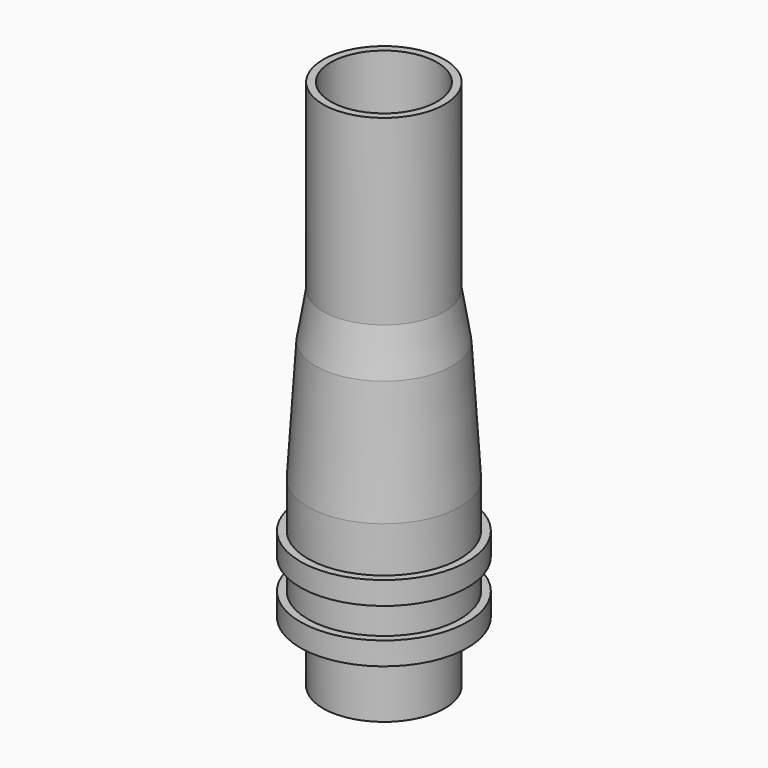
from build123d import *

# Parameters (mm, degrees)
F3_D = 7


with BuildPart() as f1:
    # F0 (on Front) → F1 (revolve)
    with BuildSketch(Plane.XZ):
        Polygon((-4, 0), (0, 0), (0, 35), (-4, 35), (-4, 23), (-4.5, 20), (-5, 12), (-5, 9), (-5.5, 9), (-5.5, 7.5), (-5, 7.5), (-5, 5.5), (-5.5, 5.5), (-5.5, 4), (-4, 4), align=None)
    revolve(axis=Axis((0, 0, 17.5), (0, 0, 1)))

    # F3 (through all)
    with Locations(Plane(origin=(0, 0, 0), x_dir=(1, 0, 0), z_dir=(0, 0, -1))):
        with Locations((0, 0)):
            Hole(F3_D / 2)


solid = f1.part
